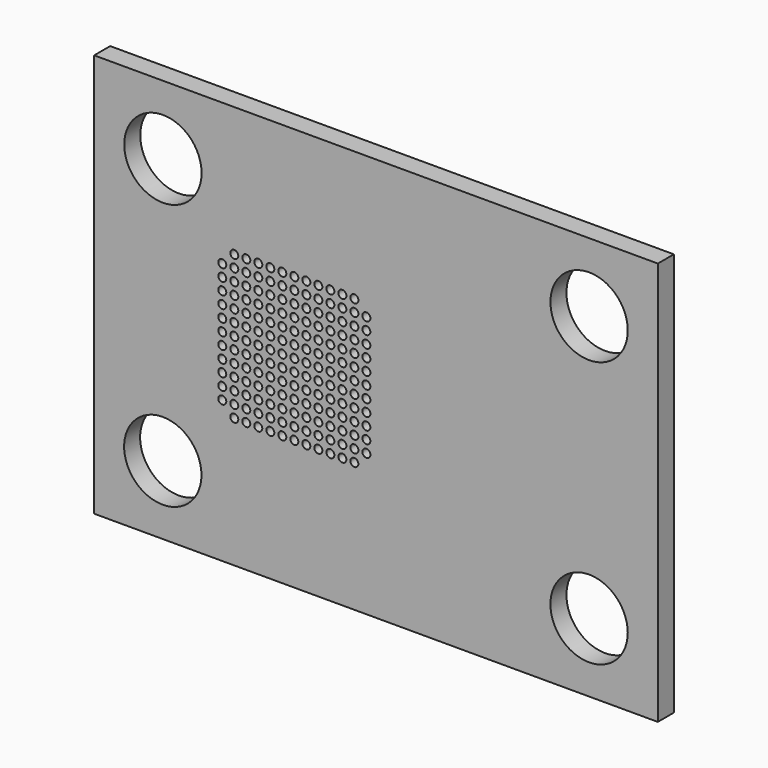
from build123d import *

# Parameters (mm, degrees)
F0_W     = 894.08
F0_H     = 640.08
F0_R     = 61.341
F0_R_2   = 6.35
F1_DEPTH = 31.75


with BuildPart() as f1:
    # F0 (on Front) → F1 (new body)
    with BuildSketch(Plane.XZ):
        Rectangle(F0_W, F0_H)
        with Locations((-338.185633, -210.813498)):
            Circle(F0_R, mode=Mode.SUBTRACT)
        with Locations((-224.79, -114.3)):
            Circle(F0_R_2, mode=Mode.SUBTRACT)
        with Locations((-243.84, -95.25)):
            Circle(F0_R_2, mode=Mode.SUBTRACT)
        with Locations((-224.79, -95.25)):
            Circle(F0_R_2, mode=Mode.SUBTRACT)
        with Locations((-243.84, -76.2)):
            Circle(F0_R_2, mode=Mode.SUBTRACT)
        with Locations((-224.79, -76.2)):
            Circle(F0_R_2, mode=Mode.SUBTRACT)
        with Locations((-243.84, -57.15)):
            Circle(F0_R_2, mode=Mode.SUBTRACT)
        with Locations((-224.79, -57.15)):
            Circle(F0_R_2, mode=Mode.SUBTRACT)
        with Locations((-243.84, -38.1)):
            Circle(F0_R_2, mode=Mode.SUBTRACT)
        with Locations((-224.79, -38.1)):
            Circle(F0_R_2, mode=Mode.SUBTRACT)
        with Locations((-243.84, -19.05)):
            Circle(F0_R_2, mode=Mode.SUBTRACT)
        with Locations((-224.79, -19.05)):
            Circle(F0_R_2, mode=Mode.SUBTRACT)
        with Locations((-205.74, -114.3)):
            Circle(F0_R_2, mode=Mode.SUBTRACT)
        with Locations((-186.69, -114.3)):
            Circle(F0_R_2, mode=Mode.SUBTRACT)
        with Locations((-205.74, -95.25)):
            Circle(F0_R_2, mode=Mode.SUBTRACT)
        with Locations((-186.69, -95.25)):
            Circle(F0_R_2, mode=Mode.SUBTRACT)
        with Locations((-167.64, -114.3)):
            Circle(F0_R_2, mode=Mode.SUBTRACT)
        with Locations((-148.59, -114.3)):
            Circle(F0_R_2, mode=Mode.SUBTRACT)
        with Locations((-129.54, -114.3)):
            Circle(F0_R_2, mode=Mode.SUBTRACT)
        with Locations((-167.64, -95.25)):
            Circle(F0_R_2, mode=Mode.SUBTRACT)
        with Locations((-148.59, -95.25)):
            Circle(F0_R_2, mode=Mode.SUBTRACT)
        with Locations((-129.54, -95.25)):
            Circle(F0_R_2, mode=Mode.SUBTRACT)
        with Locations((-110.49, -114.3)):
            Circle(F0_R_2, mode=Mode.SUBTRACT)
        with Locations((-91.44, -114.3)):
            Circle(F0_R_2, mode=Mode.SUBTRACT)
        with Locations((-72.39, -114.3)):
            Circle(F0_R_2, mode=Mode.SUBTRACT)
        with Locations((-110.49, -95.25)):
            Circle(F0_R_2, mode=Mode.SUBTRACT)
        with Locations((-91.44, -95.25)):
            Circle(F0_R_2, mode=Mode.SUBTRACT)
        with Locations((-72.39, -95.25)):
            Circle(F0_R_2, mode=Mode.SUBTRACT)
        with Locations((-53.34, -114.3)):
            Circle(F0_R_2, mode=Mode.SUBTRACT)
        with Locations((-34.29, -114.3)):
            Circle(F0_R_2, mode=Mode.SUBTRACT)
        with Locations((-53.34, -95.25)):
            Circle(F0_R_2, mode=Mode.SUBTRACT)
        with Locations((-34.29, -95.25)):
            Circle(F0_R_2, mode=Mode.SUBTRACT)
        with Locations((-15.24, -95.25)):
            Circle(F0_R_2, mode=Mode.SUBTRACT)
        with Locations((-205.74, -76.2)):
            Circle(F0_R_2, mode=Mode.SUBTRACT)
        with Locations((-186.69, -76.2)):
            Circle(F0_R_2, mode=Mode.SUBTRACT)
        with Locations((-205.74, -57.15)):
            Circle(F0_R_2, mode=Mode.SUBTRACT)
        with Locations((-186.69, -57.15)):
            Circle(F0_R_2, mode=Mode.SUBTRACT)
        with Locations((-167.64, -76.2)):
            Circle(F0_R_2, mode=Mode.SUBTRACT)
        with Locations((-148.59, -76.2)):
            Circle(F0_R_2, mode=Mode.SUBTRACT)
        with Locations((-129.54, -76.2)):
            Circle(F0_R_2, mode=Mode.SUBTRACT)
        with Locations((-167.64, -57.15)):
            Circle(F0_R_2, mode=Mode.SUBTRACT)
        with Locations((-148.59, -57.15)):
            Circle(F0_R_2, mode=Mode.SUBTRACT)
        with Locations((-129.54, -57.15)):
            Circle(F0_R_2, mode=Mode.SUBTRACT)
        with Locations((-205.74, -38.1)):
            Circle(F0_R_2, mode=Mode.SUBTRACT)
        with Locations((-186.69, -38.1)):
            Circle(F0_R_2, mode=Mode.SUBTRACT)
        with Locations((-205.74, -19.05)):
            Circle(F0_R_2, mode=Mode.SUBTRACT)
        with Locations((-186.69, -19.05)):
            Circle(F0_R_2, mode=Mode.SUBTRACT)
        with Locations((-167.64, -38.1)):
            Circle(F0_R_2, mode=Mode.SUBTRACT)
        with Locations((-148.59, -38.1)):
            Circle(F0_R_2, mode=Mode.SUBTRACT)
        with Locations((-129.54, -38.1)):
            Circle(F0_R_2, mode=Mode.SUBTRACT)
        with Locations((-167.64, -19.05)):
            Circle(F0_R_2, mode=Mode.SUBTRACT)
        with Locations((-148.59, -19.05)):
            Circle(F0_R_2, mode=Mode.SUBTRACT)
        with Locations((-129.54, -19.05)):
            Circle(F0_R_2, mode=Mode.SUBTRACT)
        with Locations((-110.49, -76.2)):
            Circle(F0_R_2, mode=Mode.SUBTRACT)
        with Locations((-91.44, -76.2)):
            Circle(F0_R_2, mode=Mode.SUBTRACT)
        with Locations((-72.39, -76.2)):
            Circle(F0_R_2, mode=Mode.SUBTRACT)
        with Locations((-110.49, -57.15)):
            Circle(F0_R_2, mode=Mode.SUBTRACT)
        with Locations((-91.44, -57.15)):
            Circle(F0_R_2, mode=Mode.SUBTRACT)
        with Locations((-72.39, -57.15)):
            Circle(F0_R_2, mode=Mode.SUBTRACT)
        with Locations((-53.34, -76.2)):
            Circle(F0_R_2, mode=Mode.SUBTRACT)
        with Locations((-34.29, -76.2)):
            Circle(F0_R_2, mode=Mode.SUBTRACT)
        with Locations((-15.24, -76.2)):
            Circle(F0_R_2, mode=Mode.SUBTRACT)
        with Locations((-53.34, -57.15)):
            Circle(F0_R_2, mode=Mode.SUBTRACT)
        with Locations((-34.29, -57.15)):
            Circle(F0_R_2, mode=Mode.SUBTRACT)
        with Locations((-15.24, -57.15)):
            Circle(F0_R_2, mode=Mode.SUBTRACT)
        with Locations((-110.49, -38.1)):
            Circle(F0_R_2, mode=Mode.SUBTRACT)
        with Locations((-91.44, -38.1)):
            Circle(F0_R_2, mode=Mode.SUBTRACT)
        with Locations((-72.39, -38.1)):
            Circle(F0_R_2, mode=Mode.SUBTRACT)
        with Locations((-110.49, -19.05)):
            Circle(F0_R_2, mode=Mode.SUBTRACT)
        with Locations((-91.44, -19.05)):
            Circle(F0_R_2, mode=Mode.SUBTRACT)
        with Locations((-72.39, -19.05)):
            Circle(F0_R_2, mode=Mode.SUBTRACT)
        with Locations((-53.34, -38.1)):
            Circle(F0_R_2, mode=Mode.SUBTRACT)
        with Locations((-34.29, -38.1)):
            Circle(F0_R_2, mode=Mode.SUBTRACT)
        with Locations((-15.24, -38.1)):
            Circle(F0_R_2, mode=Mode.SUBTRACT)
        with Locations((-53.34, -19.05)):
            Circle(F0_R_2, mode=Mode.SUBTRACT)
        with Locations((-34.29, -19.05)):
            Circle(F0_R_2, mode=Mode.SUBTRACT)
        with Locations((-15.24, -19.05)):
            Circle(F0_R_2, mode=Mode.SUBTRACT)
        with Locations((338.000492, -211.000518)):
            Circle(F0_R, mode=Mode.SUBTRACT)
        with Locations((-243.84, 0)):
            Circle(F0_R_2, mode=Mode.SUBTRACT)
        with Locations((-224.79, 0)):
            Circle(F0_R_2, mode=Mode.SUBTRACT)
        with Locations((-243.84, 19.05)):
            Circle(F0_R_2, mode=Mode.SUBTRACT)
        with Locations((-224.79, 19.05)):
            Circle(F0_R_2, mode=Mode.SUBTRACT)
        with Locations((-243.84, 38.1)):
            Circle(F0_R_2, mode=Mode.SUBTRACT)
        with Locations((-224.79, 38.1)):
            Circle(F0_R_2, mode=Mode.SUBTRACT)
        with Locations((-243.84, 57.15)):
            Circle(F0_R_2, mode=Mode.SUBTRACT)
        with Locations((-224.79, 57.15)):
            Circle(F0_R_2, mode=Mode.SUBTRACT)
        with Locations((-243.84, 76.2)):
            Circle(F0_R_2, mode=Mode.SUBTRACT)
        with Locations((-224.79, 76.2)):
            Circle(F0_R_2, mode=Mode.SUBTRACT)
        with Locations((-243.84, 95.25)):
            Circle(F0_R_2, mode=Mode.SUBTRACT)
        with Locations((-224.79, 95.25)):
            Circle(F0_R_2, mode=Mode.SUBTRACT)
        with Locations((-224.79, 114.3)):
            Circle(F0_R_2, mode=Mode.SUBTRACT)
        with Locations((-205.74, 0)):
            Circle(F0_R_2, mode=Mode.SUBTRACT)
        with Locations((-205.74, 19.05)):
            Circle(F0_R_2, mode=Mode.SUBTRACT)
        with Locations((-186.69, 0)):
            Circle(F0_R_2, mode=Mode.SUBTRACT)
        with Locations((-186.69, 19.05)):
            Circle(F0_R_2, mode=Mode.SUBTRACT)
        with Locations((-205.74, 38.1)):
            Circle(F0_R_2, mode=Mode.SUBTRACT)
        with Locations((-186.69, 38.1)):
            Circle(F0_R_2, mode=Mode.SUBTRACT)
        with Locations((-167.64, 0)):
            Circle(F0_R_2, mode=Mode.SUBTRACT)
        with Locations((-148.59, 0)):
            Circle(F0_R_2, mode=Mode.SUBTRACT)
        with Locations((-167.64, 19.05)):
            Circle(F0_R_2, mode=Mode.SUBTRACT)
        with Locations((-148.59, 19.05)):
            Circle(F0_R_2, mode=Mode.SUBTRACT)
        with Locations((-129.54, 0)):
            Circle(F0_R_2, mode=Mode.SUBTRACT)
        with Locations((-129.54, 19.05)):
            Circle(F0_R_2, mode=Mode.SUBTRACT)
        with Locations((-167.64, 38.1)):
            Circle(F0_R_2, mode=Mode.SUBTRACT)
        with Locations((-148.59, 38.1)):
            Circle(F0_R_2, mode=Mode.SUBTRACT)
        with Locations((-129.54, 38.1)):
            Circle(F0_R_2, mode=Mode.SUBTRACT)
        with Locations((-205.74, 57.15)):
            Circle(F0_R_2, mode=Mode.SUBTRACT)
        with Locations((-186.69, 57.15)):
            Circle(F0_R_2, mode=Mode.SUBTRACT)
        with Locations((-205.74, 76.2)):
            Circle(F0_R_2, mode=Mode.SUBTRACT)
        with Locations((-186.69, 76.2)):
            Circle(F0_R_2, mode=Mode.SUBTRACT)
        with Locations((-167.64, 57.15)):
            Circle(F0_R_2, mode=Mode.SUBTRACT)
        with Locations((-148.59, 57.15)):
            Circle(F0_R_2, mode=Mode.SUBTRACT)
        with Locations((-129.54, 57.15)):
            Circle(F0_R_2, mode=Mode.SUBTRACT)
        with Locations((-167.64, 76.2)):
            Circle(F0_R_2, mode=Mode.SUBTRACT)
        with Locations((-148.59, 76.2)):
            Circle(F0_R_2, mode=Mode.SUBTRACT)
        with Locations((-129.54, 76.2)):
            Circle(F0_R_2, mode=Mode.SUBTRACT)
        with Locations((-110.49, 0)):
            Circle(F0_R_2, mode=Mode.SUBTRACT)
        with Locations((-91.44, 0)):
            Circle(F0_R_2, mode=Mode.SUBTRACT)
        with Locations((-110.49, 19.05)):
            Circle(F0_R_2, mode=Mode.SUBTRACT)
        with Locations((-91.44, 19.05)):
            Circle(F0_R_2, mode=Mode.SUBTRACT)
        with Locations((-72.39, 0)):
            Circle(F0_R_2, mode=Mode.SUBTRACT)
        with Locations((-72.39, 19.05)):
            Circle(F0_R_2, mode=Mode.SUBTRACT)
        with Locations((-110.49, 38.1)):
            Circle(F0_R_2, mode=Mode.SUBTRACT)
        with Locations((-91.44, 38.1)):
            Circle(F0_R_2, mode=Mode.SUBTRACT)
        with Locations((-72.39, 38.1)):
            Circle(F0_R_2, mode=Mode.SUBTRACT)
        with Locations((-53.34, 0)):
            Circle(F0_R_2, mode=Mode.SUBTRACT)
        with Locations((-34.29, 0)):
            Circle(F0_R_2, mode=Mode.SUBTRACT)
        with Locations((-53.34, 19.05)):
            Circle(F0_R_2, mode=Mode.SUBTRACT)
        with Locations((-34.29, 19.05)):
            Circle(F0_R_2, mode=Mode.SUBTRACT)
        with Locations((-15.24, 0)):
            Circle(F0_R_2, mode=Mode.SUBTRACT)
        with Locations((-15.24, 19.05)):
            Circle(F0_R_2, mode=Mode.SUBTRACT)
        with Locations((-53.34, 38.1)):
            Circle(F0_R_2, mode=Mode.SUBTRACT)
        with Locations((-34.29, 38.1)):
            Circle(F0_R_2, mode=Mode.SUBTRACT)
        with Locations((-15.24, 38.1)):
            Circle(F0_R_2, mode=Mode.SUBTRACT)
        with Locations((-110.49, 57.15)):
            Circle(F0_R_2, mode=Mode.SUBTRACT)
        with Locations((-91.44, 57.15)):
            Circle(F0_R_2, mode=Mode.SUBTRACT)
        with Locations((-72.39, 57.15)):
            Circle(F0_R_2, mode=Mode.SUBTRACT)
        with Locations((-110.49, 76.2)):
            Circle(F0_R_2, mode=Mode.SUBTRACT)
        with Locations((-91.44, 76.2)):
            Circle(F0_R_2, mode=Mode.SUBTRACT)
        with Locations((-72.39, 76.2)):
            Circle(F0_R_2, mode=Mode.SUBTRACT)
        with Locations((-53.34, 57.15)):
            Circle(F0_R_2, mode=Mode.SUBTRACT)
        with Locations((-34.29, 57.15)):
            Circle(F0_R_2, mode=Mode.SUBTRACT)
        with Locations((-15.24, 57.15)):
            Circle(F0_R_2, mode=Mode.SUBTRACT)
        with Locations((-53.34, 76.2)):
            Circle(F0_R_2, mode=Mode.SUBTRACT)
        with Locations((-34.29, 76.2)):
            Circle(F0_R_2, mode=Mode.SUBTRACT)
        with Locations((-15.24, 76.2)):
            Circle(F0_R_2, mode=Mode.SUBTRACT)
        with Locations((-205.74, 95.25)):
            Circle(F0_R_2, mode=Mode.SUBTRACT)
        with Locations((-186.69, 95.25)):
            Circle(F0_R_2, mode=Mode.SUBTRACT)
        with Locations((-205.74, 114.3)):
            Circle(F0_R_2, mode=Mode.SUBTRACT)
        with Locations((-186.69, 114.3)):
            Circle(F0_R_2, mode=Mode.SUBTRACT)
        with Locations((-167.64, 95.25)):
            Circle(F0_R_2, mode=Mode.SUBTRACT)
        with Locations((-148.59, 95.25)):
            Circle(F0_R_2, mode=Mode.SUBTRACT)
        with Locations((-129.54, 95.25)):
            Circle(F0_R_2, mode=Mode.SUBTRACT)
        with Locations((-167.64, 114.3)):
            Circle(F0_R_2, mode=Mode.SUBTRACT)
        with Locations((-148.59, 114.3)):
            Circle(F0_R_2, mode=Mode.SUBTRACT)
        with Locations((-129.54, 114.3)):
            Circle(F0_R_2, mode=Mode.SUBTRACT)
        with Locations((-110.49, 95.25)):
            Circle(F0_R_2, mode=Mode.SUBTRACT)
        with Locations((-91.44, 95.25)):
            Circle(F0_R_2, mode=Mode.SUBTRACT)
        with Locations((-72.39, 95.25)):
            Circle(F0_R_2, mode=Mode.SUBTRACT)
        with Locations((-110.49, 114.3)):
            Circle(F0_R_2, mode=Mode.SUBTRACT)
        with Locations((-91.44, 114.3)):
            Circle(F0_R_2, mode=Mode.SUBTRACT)
        with Locations((-72.39, 114.3)):
            Circle(F0_R_2, mode=Mode.SUBTRACT)
        with Locations((-53.34, 95.25)):
            Circle(F0_R_2, mode=Mode.SUBTRACT)
        with Locations((-34.29, 95.25)):
            Circle(F0_R_2, mode=Mode.SUBTRACT)
        with Locations((-15.24, 95.25)):
            Circle(F0_R_2, mode=Mode.SUBTRACT)
        with Locations((-53.34, 114.3)):
            Circle(F0_R_2, mode=Mode.SUBTRACT)
        with Locations((-34.29, 114.3)):
            Circle(F0_R_2, mode=Mode.SUBTRACT)
        with Locations((-338.000518, 211.000492)):
            Circle(F0_R, mode=Mode.SUBTRACT)
        with Locations((338.000492, 211.000492)):
            Circle(F0_R, mode=Mode.SUBTRACT)
    extrude(amount=F1_DEPTH)


solid = f1.part
